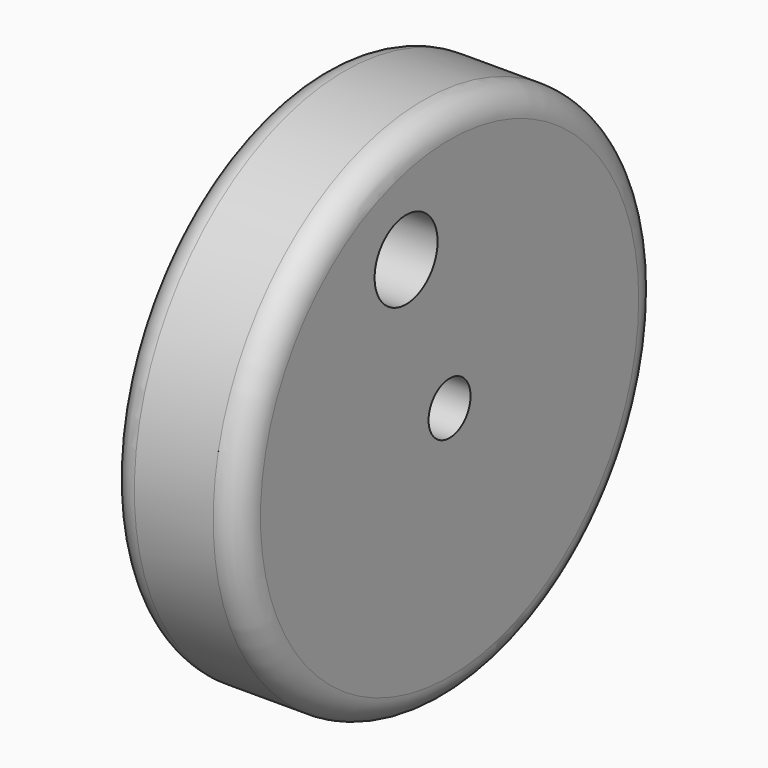
from build123d import *

# Parameters (mm, degrees)
F0_R     = 50
F0_R_2   = 7.496671
F0_R_3   = 5
F1_DEPTH = 25
F2_R     = 5


with BuildPart() as f1:
    # F0 (on Right) → F1 (new body)
    with BuildSketch(Plane.YZ):
        Circle(F0_R)
        with Locations((-10.344213, 29.099595)):
            Circle(F0_R_2, mode=Mode.SUBTRACT)
        Circle(F0_R_3, mode=Mode.SUBTRACT)
    extrude(amount=F1_DEPTH)

    # F2
    f2_edges = [f1.edges().sort_by_distance(p)[0] for p in [
        (25, -50, 0),
        (0, -50, 0),
    ]]
    fillet(f2_edges, radius=F2_R)


solid = f1.part
